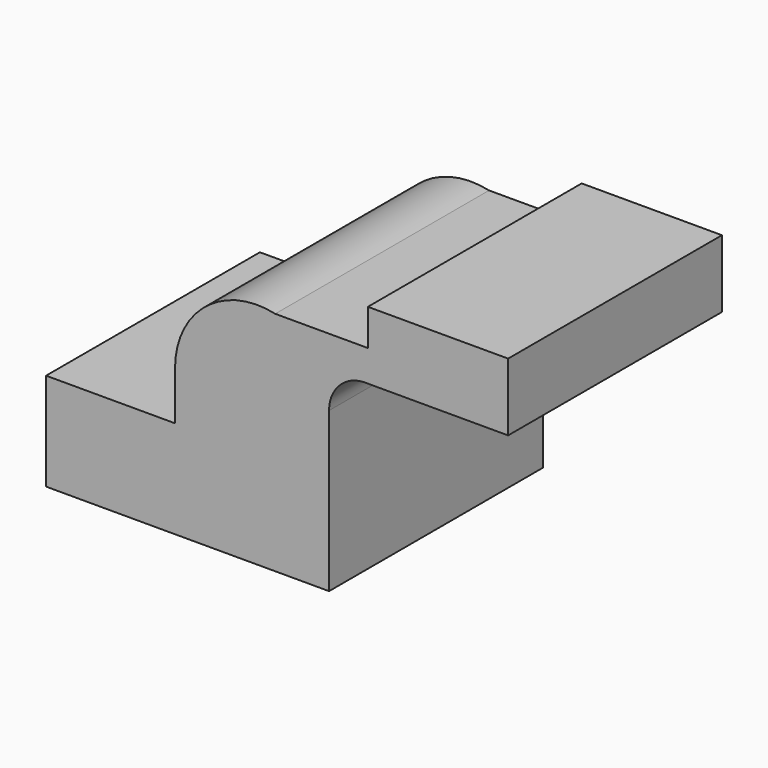
from build123d import *

# Parameters (mm, degrees)
F1_DEPTH = 68.072
F2_DEPTH = 25.4


with BuildPart() as f1:
    # F0 (on Front) → F1 (new body)
    with BuildSketch(Plane.XZ):
        Polygon((63.0641430616, 62.1895045042), (63.0641430616, 51.2399822474), (112.1140122414, 51.2399822474), (112.1140122414, 74.8909711838), (63.0641430616, 74.8909711838), align=None)
        Polygon((-49.4878217578, -17.0850455761), (49.4878217578, -17.0850455761), (49.4878217578, 17.0850455761), (-4.3794501107, 17.0850455761), (-49.4878217578, 17.0850455761), align=None)
        with BuildLine():
            Line((-4.3794501107, 17.0850455761), (49.4878217578, 17.0850455761))
            Line((49.4878217578, 17.0850455761), (49.4878217578, 38.5385379195))
            ThreePointArc((49.4878217578, 38.5385379195), (53.5207448585, 47.8342787205), (63.0641430616, 51.2399822474))
            Line((63.0641430616, 51.2399822474), (63.0641430616, 62.1895045042))
            Line((63.0641430616, 62.1895045042), (30.6561756879, 62.1895045042))
            ThreePointArc((30.6561756879, 62.1895045042), (6.4025600383, 56.5931809269), (-4.3794501107, 34.1587215662))
            Line((-4.3794501107, 34.1587215662), (-4.3794501107, 17.0850455761))
        make_face()
    extrude(amount=F1_DEPTH)

    # F2 (add): a face of the model
    f2_faces = [f1.faces().sort_by_distance(p)[0] for p in [
        (23.7821651341, -68.072, 24.4260783553),
    ]]
    extrude(f2_faces, amount=F2_DEPTH)


solid = f1.part
